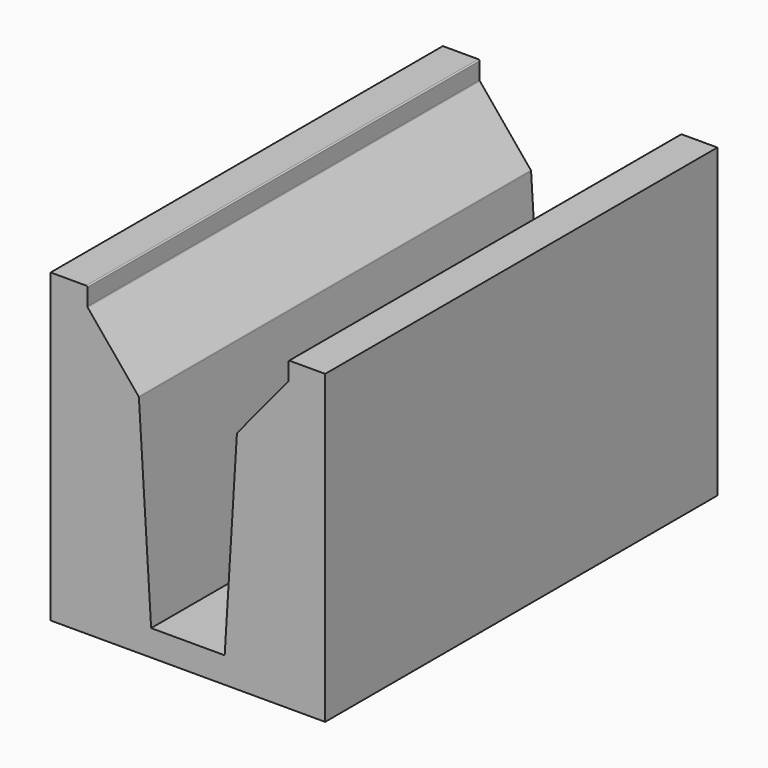
from build123d import *

# Parameters (mm, degrees)
F1_DEPTH = 2000
F2_R     = 5
F3_R     = 5
F4_R     = 5
F5_R     = 5


with BuildPart() as f1:
    # F0 (on Front) → F1 (new body)
    with BuildSketch(Plane.XZ):
        Polygon((150, 0), (0, 0), (-150, 0), (-200, 814), (-410, 1069), (-410, 1144), (-560, 1144), (-560, -106), (0, -106), (560, -106), (560, 1144), (410, 1144), (410, 1069), (200, 814), align=None)
    extrude(amount=F1_DEPTH)

    # F2
    f2_edges = [f1.edges().sort_by_distance(p)[0] for p in [
        (-200, -1000, 814),
    ]]
    fillet(f2_edges, radius=F2_R)

    # F3
    f3_edges = [f1.edges().sort_by_distance(p)[0] for p in [
        (-410, -1000, 1069),
    ]]
    fillet(f3_edges, radius=F3_R)

    # F4
    f4_edges = [f1.edges().sort_by_distance(p)[0] for p in [
        (-410, -1000, 1144),
    ]]
    fillet(f4_edges, radius=F4_R)

    # F5
    f5_edges = [f1.edges().sort_by_distance(p)[0] for p in [
        (410, -1000, 1144),
        (200, -1000, 814),
        (150, -1000, 0),
        (410, -1000, 1069),
    ]]
    fillet(f5_edges, radius=F5_R)


solid = f1.part
